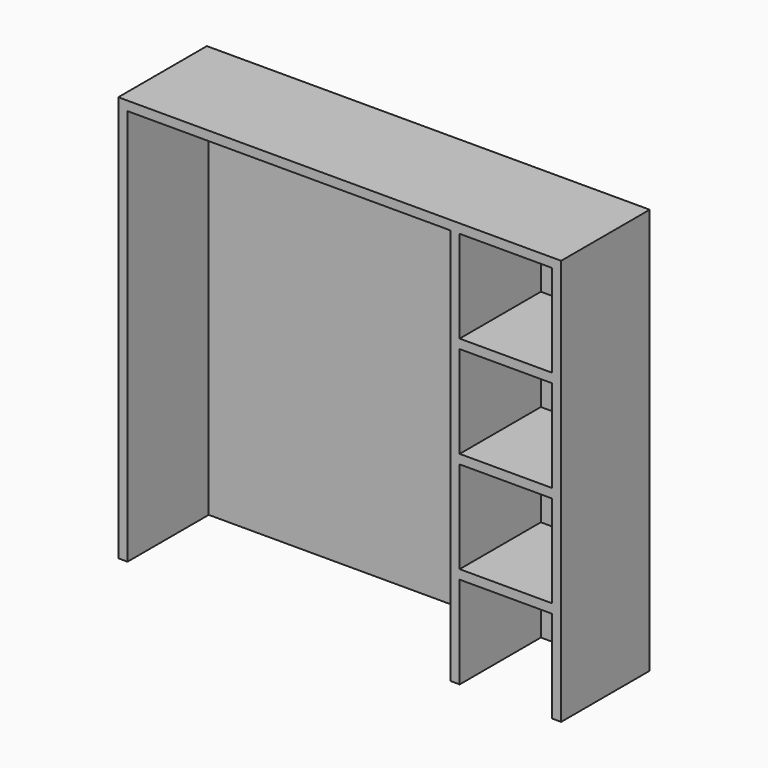
from build123d import *

# Parameters (mm, degrees)
BOX3575_W        = 1750
BOX3575_H        = 550
BOX3575_DEPTH    = 2150
BOX3574_W        = 500
BOX3574_H        = 550
BOX3574_DEPTH    = 500
ARRAY291_Z_COUNT = 4
ARRAY291_Z_PITCH = 550
BOX3573_W        = 2400
BOX3573_H        = 600
BOX3573_DEPTH    = 2200


with BuildPart() as box3575:
    # Box3575 → Box3575 (new body)
    with BuildSketch(Plane(origin=(7550, -3000, 0), x_dir=(1, 0, 0), z_dir=(0, 0, 1))):
        with Locations((875, 275)):
            Rectangle(BOX3575_W, BOX3575_H)
    extrude(amount=BOX3575_DEPTH)


with BuildPart() as array291:
    # Box3574 → Box3574 (new body)
    with BuildSketch(Plane(origin=(9350, -3000, 0), x_dir=(1, 0, 0), z_dir=(0, 0, 1))):
        with Locations((250, 275)):
            Rectangle(BOX3574_W, BOX3574_H)
    extrude(amount=BOX3574_DEPTH)

    # Array291 Z: Array291 ×4


with BuildPart() as array291_1:
    add(array291.part)
    with Locations(*[(0, 0, i * ARRAY291_Z_PITCH) for i in range(1, ARRAY291_Z_COUNT)]):
        add(array291.part)


with BuildPart() as cut009:
    # Box3573 → Box3573 (new body)
    with BuildSketch(Plane(origin=(7500, -3000, 0), x_dir=(1, 0, 0), z_dir=(0, 0, 1))):
        with Locations((1200, 300)):
            Rectangle(BOX3573_W, BOX3573_H)
    extrude(amount=BOX3573_DEPTH)

    # Cut008: cut Array291
    add(array291_1.part, mode=Mode.SUBTRACT)

    # Cut009: cut Box3575
    add(box3575.part, mode=Mode.SUBTRACT)


solid = cut009.part
